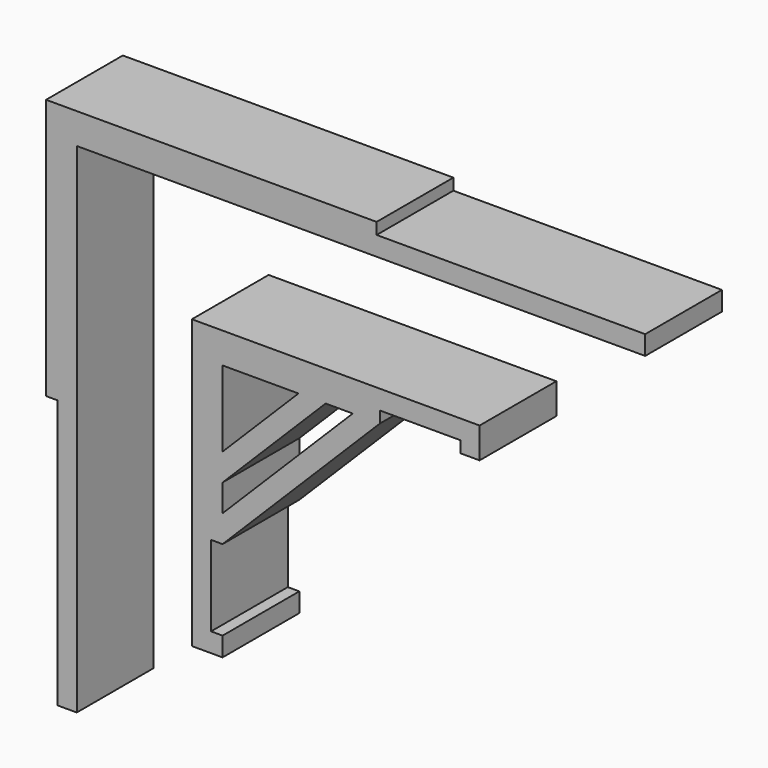
from build123d import *

# Parameters (mm, degrees)
F0_W     = 8
F0_H     = 8
F1_DEPTH = 25
F3_DEPTH = 25


with BuildPart() as f1:
    # F0 (on Front) → F1 (new body)
    with BuildSketch(Plane.XZ):
        with Locations((4, -4)):
            Rectangle(F0_W, F0_H)
        Polygon((8, -8), (0, -8), (0, -35.7867951971), (8, -27.7867951971), align=None)
        Polygon((35.7867951971, 0), (8, 0), (8, -8), (27.7867951971, -8), align=None)
        Polygon((8, -27.7867951971), (0, -35.7867951971), (0, -75), (5, -75), (8, -75), (8, -70), (5, -70), (5, -49), (8, -49), (8, -41.9289321881), (8, -34.857863009), align=None)
        Polygon((75, 0), (35.7867951971, 0), (27.7867951971, -8), (34.857863009, -8), (41.9289321881, -8), (49, -8), (49, -5), (70, -5), (70, -8), (75, -8), align=None)
        Polygon((41.9289321881, -8), (8, -41.9289321881), (8, -49), (49, -8), align=None)
        Polygon((27.7867951971, -8), (8, -27.7867951971), (8, -34.857863009), (34.857863009, -8), align=None)
    extrude(amount=F1_DEPTH)


with BuildPart() as f3:
    # F2 (on Front) → F3 (new body)
    with BuildSketch(Plane.XZ):
        Polygon((-30, -100), (-30, 30), (118.1583255529, 30), (118.1583255529, 35), (48.1583255529, 35), (48.1583255529, 38), (-38, 38), (-38, -30), (-35, -30), (-35, -100), align=None)
    extrude(amount=F3_DEPTH)


solid = Compound([f1.part, f3.part])
